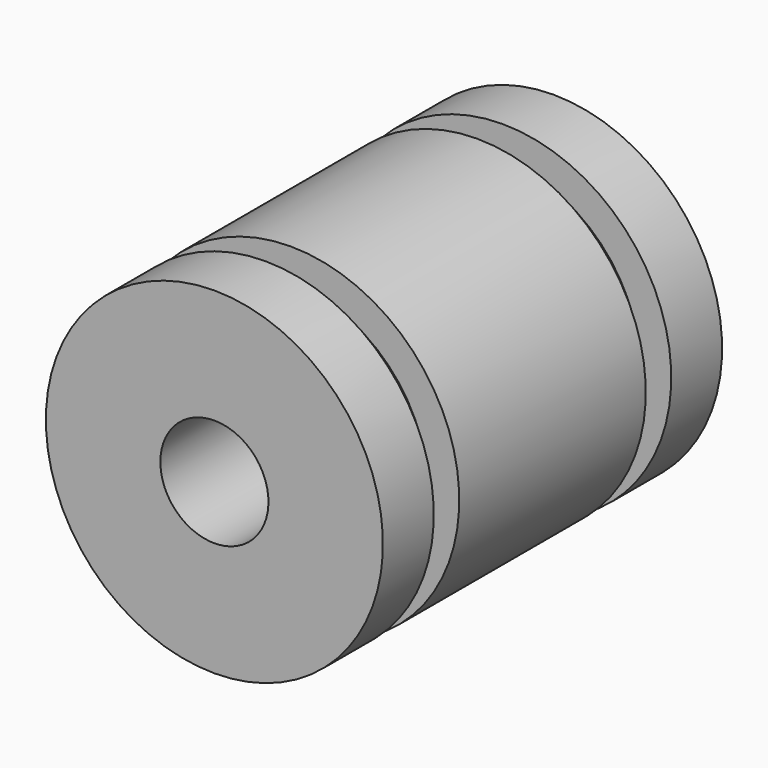
from build123d import *


with BuildPart() as f1:
    # F0 (on Right) → F1 (revolve)
    with BuildSketch(Plane.YZ):
        Polygon((0, 2.55), (20, 2.55), (20, 4.95), (20, 7.95), (17, 7.95), (17, 6.45), (15.5, 6.45), (15.5, 7.95), (4.5, 7.95), (4.5, 6.45), (3, 6.45), (3, 7.95), (0, 7.95), align=None)
    revolve(axis=Axis((0, 5.735075, 0), (0, -1, 0)))


solid = f1.part
